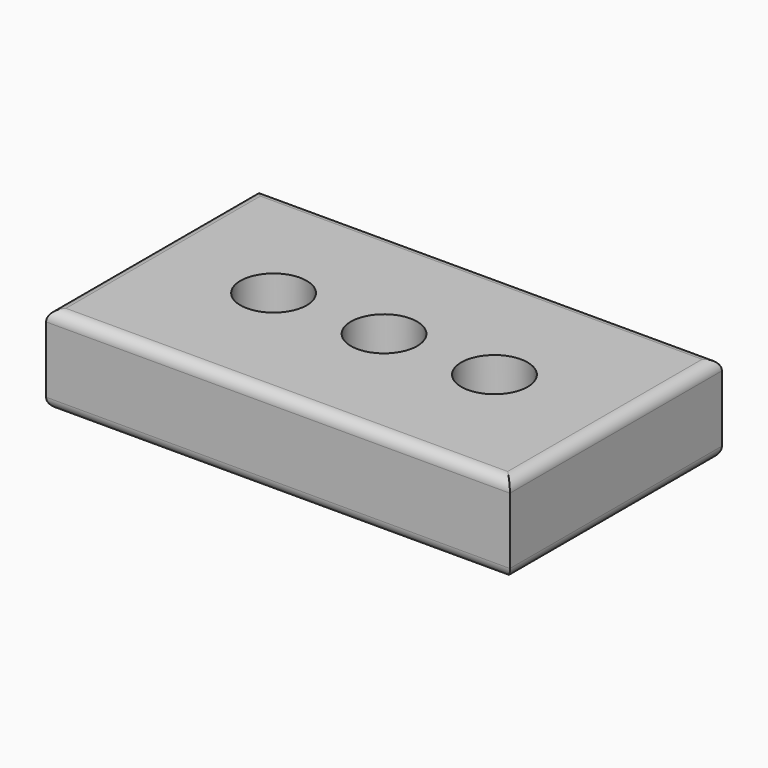
from build123d import *

# Parameters (mm, degrees)
F0_W     = 104.999994
F0_H     = 59.99988
F1_DEPTH = 20.000011
F2_R     = 7.5
F2_R_2   = 7.507622
F3_DEPTH = 20.001011
F4_R     = 2.5


with BuildPart() as f1:
    # F0 (on Top) → F1 (new body)
    with BuildSketch(Plane.XY):
        Rectangle(F0_W, F0_H)
    extrude(amount=F1_DEPTH)

    # F2 (on Top) → F3 (cut, through all)
    with BuildSketch(Plane.XY):
        Circle(F2_R)
        with Locations((-25, 0)):
            Circle(F2_R_2)
        with Locations((25, 0)):
            Circle(F2_R_2)
    extrude(amount=F3_DEPTH, mode=Mode.SUBTRACT)

    # F4
    f4_edges = [f1.edges().sort_by_distance(p)[0] for p in [
        (0, 29.99994, 0),
        (52.499997, 0, 0),
        (0, -29.99994, 0),
        (-52.499997, 0, 0),
        (0, 29.99994, 20.000011),
        (52.499997, 0, 20.000011),
        (0, -29.99994, 20.000011),
        (-52.499997, 0, 20.000011),
    ]]
    fillet(f4_edges, radius=F4_R)


solid = f1.part
